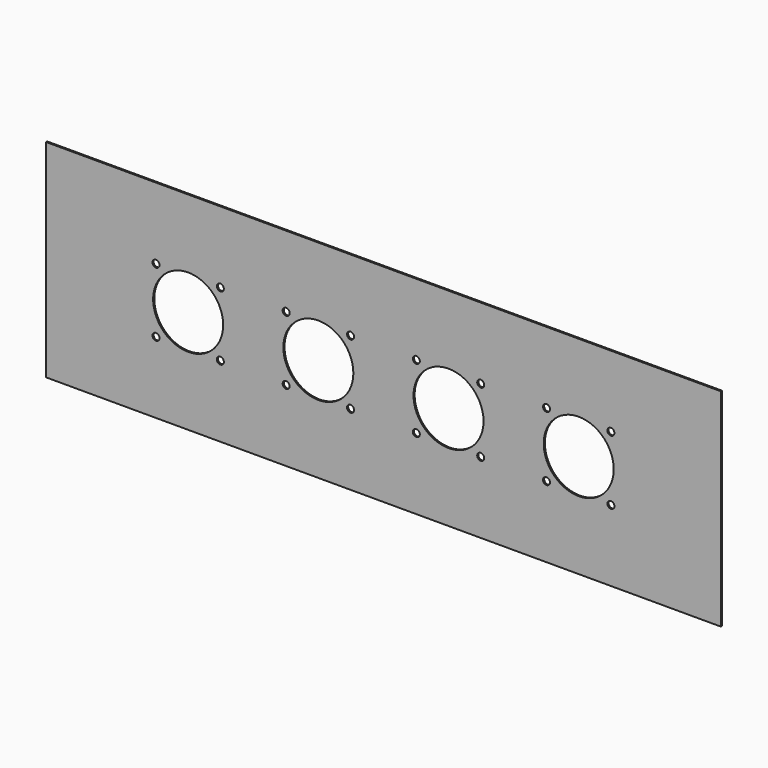
from build123d import *

# Parameters (mm, degrees)
F0_W     = 482
F0_H     = 148
F0_R     = 2.5
F0_R_2   = 25
F1_DEPTH = 0.5


with BuildPart() as f1:
    # F0 (on Front) → F1 (new body, symmetric)
    with BuildSketch(Plane.XZ):
        Rectangle(F0_W, F0_H)
        with Locations((-162.5, -23)):
            Circle(F0_R, mode=Mode.SUBTRACT)
        with Locations((-116.5, -23)):
            Circle(F0_R, mode=Mode.SUBTRACT)
        with Locations((-69.5, -23)):
            Circle(F0_R, mode=Mode.SUBTRACT)
        with Locations((-23.5, -23)):
            Circle(F0_R, mode=Mode.SUBTRACT)
        with Locations((23.5, -23)):
            Circle(F0_R, mode=Mode.SUBTRACT)
        with Locations((69.5, -23)):
            Circle(F0_R, mode=Mode.SUBTRACT)
        with Locations((116.5, -23)):
            Circle(F0_R, mode=Mode.SUBTRACT)
        with Locations((162.5, -23)):
            Circle(F0_R, mode=Mode.SUBTRACT)
        with Locations((-139.5, 0)):
            Circle(F0_R_2, mode=Mode.SUBTRACT)
        with Locations((-162.5, 23)):
            Circle(F0_R, mode=Mode.SUBTRACT)
        with Locations((-46.5, 0)):
            Circle(F0_R_2, mode=Mode.SUBTRACT)
        with Locations((-116.5, 23)):
            Circle(F0_R, mode=Mode.SUBTRACT)
        with Locations((-69.5, 23)):
            Circle(F0_R, mode=Mode.SUBTRACT)
        with Locations((-23.5, 23)):
            Circle(F0_R, mode=Mode.SUBTRACT)
        with Locations((46.5, 0)):
            Circle(F0_R_2, mode=Mode.SUBTRACT)
        with Locations((23.5, 23)):
            Circle(F0_R, mode=Mode.SUBTRACT)
        with Locations((69.5, 23)):
            Circle(F0_R, mode=Mode.SUBTRACT)
        with Locations((116.5, 23)):
            Circle(F0_R, mode=Mode.SUBTRACT)
        with Locations((139.5, 0)):
            Circle(F0_R_2, mode=Mode.SUBTRACT)
        with Locations((162.5, 23)):
            Circle(F0_R, mode=Mode.SUBTRACT)
        Rectangle(F0_W, F0_H)
        with Locations((-162.5, -23)):
            Circle(F0_R, mode=Mode.SUBTRACT)
        with Locations((-116.5, -23)):
            Circle(F0_R, mode=Mode.SUBTRACT)
        with Locations((-69.5, -23)):
            Circle(F0_R, mode=Mode.SUBTRACT)
        with Locations((-23.5, -23)):
            Circle(F0_R, mode=Mode.SUBTRACT)
        with Locations((23.5, -23)):
            Circle(F0_R, mode=Mode.SUBTRACT)
        with Locations((69.5, -23)):
            Circle(F0_R, mode=Mode.SUBTRACT)
        with Locations((116.5, -23)):
            Circle(F0_R, mode=Mode.SUBTRACT)
        with Locations((162.5, -23)):
            Circle(F0_R, mode=Mode.SUBTRACT)
        with Locations((-139.5, 0)):
            Circle(F0_R_2, mode=Mode.SUBTRACT)
        with Locations((-162.5, 23)):
            Circle(F0_R, mode=Mode.SUBTRACT)
        with Locations((-46.5, 0)):
            Circle(F0_R_2, mode=Mode.SUBTRACT)
        with Locations((-116.5, 23)):
            Circle(F0_R, mode=Mode.SUBTRACT)
        with Locations((-69.5, 23)):
            Circle(F0_R, mode=Mode.SUBTRACT)
        with Locations((-23.5, 23)):
            Circle(F0_R, mode=Mode.SUBTRACT)
        with Locations((46.5, 0)):
            Circle(F0_R_2, mode=Mode.SUBTRACT)
        with Locations((23.5, 23)):
            Circle(F0_R, mode=Mode.SUBTRACT)
        with Locations((69.5, 23)):
            Circle(F0_R, mode=Mode.SUBTRACT)
        with Locations((116.5, 23)):
            Circle(F0_R, mode=Mode.SUBTRACT)
        with Locations((139.5, 0)):
            Circle(F0_R_2, mode=Mode.SUBTRACT)
        with Locations((162.5, 23)):
            Circle(F0_R, mode=Mode.SUBTRACT)
    extrude(amount=F1_DEPTH, both=True)


solid = f1.part
